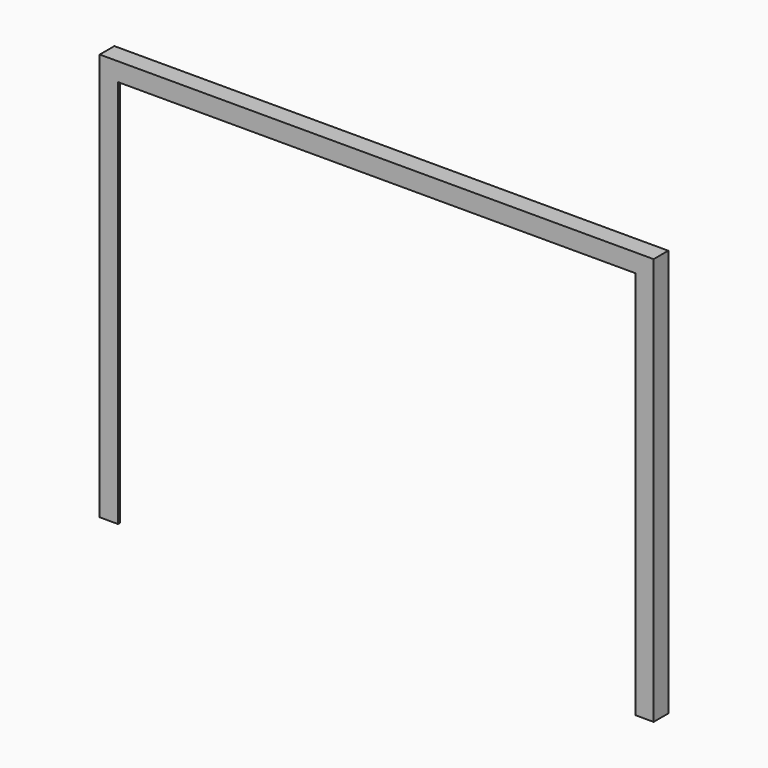
from build123d import *

# Parameters (mm, degrees)
F0_W     = 768.35
F0_H     = 25.4
F1_DEPTH = 25.4
F2_W     = 22.225
F2_H     = 22.225
F3_DEPTH = 768.351
F5_DEPTH = 565.15


with BuildPart() as f1:
    # F0 (on Top) → F1 (new body)
    with BuildSketch(Plane.XY):
        Rectangle(F0_W, F0_H)
    extrude(amount=F1_DEPTH)

    # F2 (on face) → F3 (cut, through all)
    with BuildSketch(Plane.YZ.offset(384.175)):
        with Locations((1.5875, 11.1125)):
            Rectangle(F2_W, F2_H)
    extrude(amount=-F3_DEPTH, mode=Mode.SUBTRACT)

    # F4 (on face) → F5 (join)
    with BuildSketch(Plane.XY.offset(25.4)):
        Polygon((384.175, -12.7), (384.175, 12.7), (381, 12.7), (381, -9.525), (358.775, -9.525), (358.775, -12.7), align=None)
    extrude(amount=-F5_DEPTH)

    # F6: F1 across plane


with BuildPart() as f1_1:
    add(f1.part)
    add(f1.part.mirror(Plane.YZ))


solid = f1_1.part
